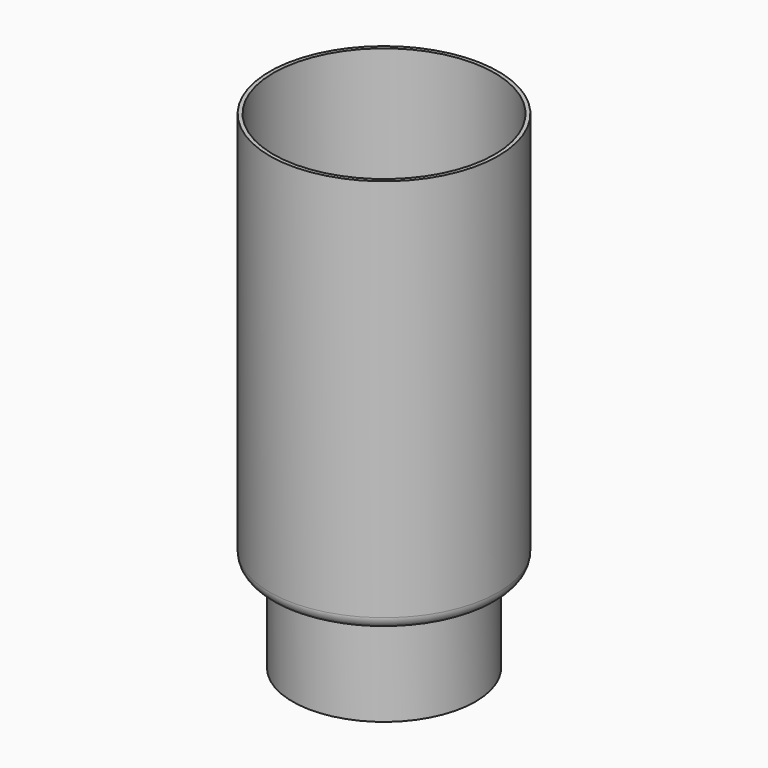
from build123d import *


with BuildPart() as f1:
    # F0 (on Front) → F1 (revolve)
    with BuildSketch(Plane.XZ):
        with BuildLine():
            Line((17.4625, 0), (19.05, 0))
            Line((19.05, 0), (19.05, 19.05))
            Line((19.05, 19.05), (21.2725, 19.05))
            ThreePointArc((21.2725, 19.05), (23.068551, 19.793949), (23.8125, 21.59))
            Line((23.8125, 21.59), (23.8125, 101.6))
            Line((23.8125, 101.6), (23.01875, 101.6))
            Line((23.01875, 101.6), (23.01875, 22.38375))
            ThreePointArc((23.01875, 22.38375), (22.274801, 20.587699), (20.47875, 19.84375))
            Line((20.47875, 19.84375), (17.4625, 19.84375))
            Line((17.4625, 19.84375), (17.4625, 0))
        make_face()
    revolve(axis=Axis((0, 0, 3.679249), (0, 0, -1)))


solid = f1.part
